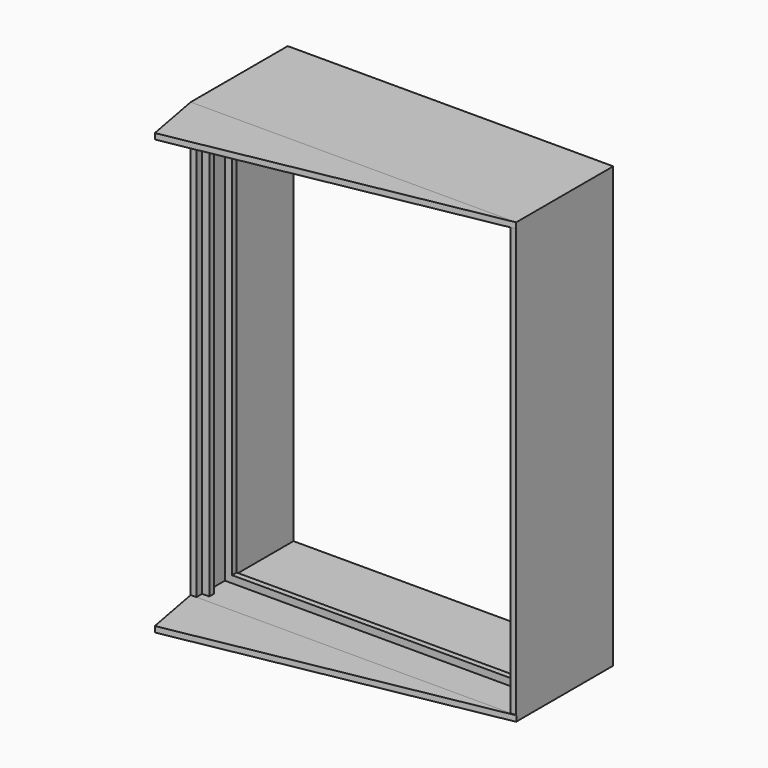
from build123d import *

# Parameters (mm, degrees)
F0_W      = 139.7
F0_H      = 190.5
F1_DEPTH  = 53.975
F2_T      = 2.54
F3_W      = 2.54
F3_H      = 190.5
F4_DEPTH  = 3.175
F5_W      = 2.54
F5_H      = 190.5
F6_DEPTH  = 139.7
F7_W      = 133.35
F7_H      = 184.15
F8_DEPTH  = 76.2
F11_DEPTH = 2.54
F13_DEPTH = 2.54


with BuildPart() as f1:
    # F0 (on Front) → F1 (new body)
    with BuildSketch(Plane.XZ):
        Rectangle(F0_W, F0_H)
    extrude(amount=-F1_DEPTH)

    # F2
    f2_openings = [f1.faces().sort_by_distance(p)[0] for p in [
        (0, 0, 0),
        (0, 53.975, 0),
    ]]
    offset(amount=F2_T, openings=f2_openings, kind=Kind.INTERSECTION)

    # F5 (on face) → F6 (join, through all)
    with BuildSketch(Plane.YZ.offset(-69.85)):
        with Locations((17.145, 0)):
            Rectangle(F5_W, F5_H)
    extrude(amount=F6_DEPTH)

    # F7 (on Front) → F8 (cut)
    with BuildSketch(Plane.XZ):
        Rectangle(F7_W, F7_H)
    extrude(amount=-F8_DEPTH, mode=Mode.SUBTRACT)


with BuildPart() as f4:
    # F3 (on face) → F4 (new body)
    with BuildSketch(Plane.YZ.offset(-69.85)):
        with Locations((4.445, 0)):
            Rectangle(F3_W, F3_H)
    extrude(amount=F4_DEPTH)


with BuildPart() as f11:
    # F10 (on face) → F11 (new body)
    with BuildSketch(Plane(origin=(0, 0, -97.79), x_dir=(1, 0, 0), z_dir=(0, 0, -1))):
        Polygon((-72.3992958665, 0), (72.5944414735, 0), (-67.5840847691, 25.9805541737), align=None)
    extrude(amount=-F11_DEPTH)


with BuildPart() as f13:
    # F12 (on face) → F13 (new body)
    with BuildSketch(Plane.XY.offset(97.79)):
        Polygon((-67.5991252065, -25.9523484856), (72.39, 0), (-72.39, 0), align=None)
    extrude(amount=-F13_DEPTH)


solid = Compound([f1.part, f4.part, f11.part, f13.part])
